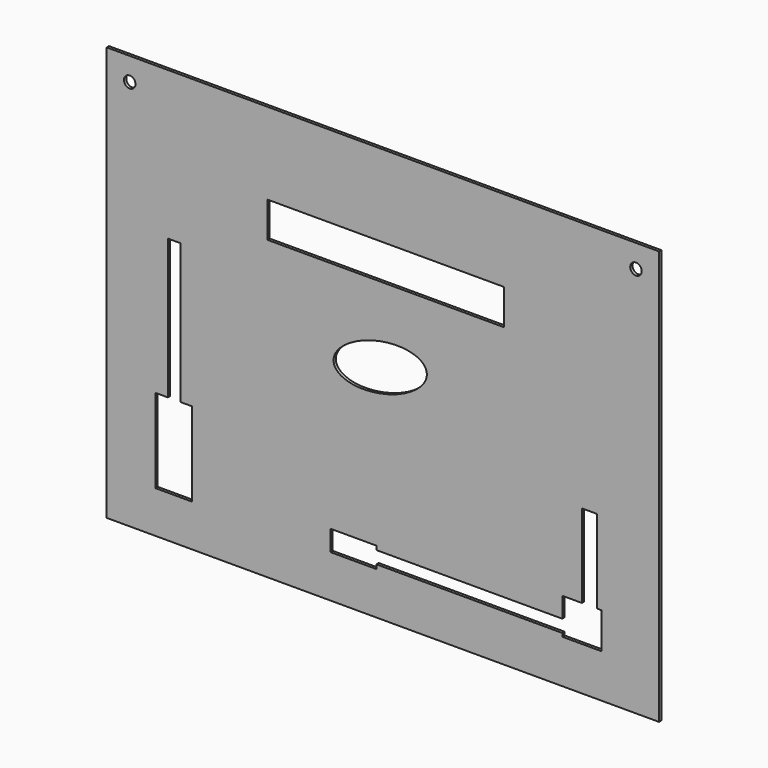
from build123d import *

# Parameters (mm, degrees)
F0_W     = 609.6
F0_H     = 457.2
F0_R     = 6.35
F0_W_2   = 261.167854
F0_H_2   = 39.175182
F1_DEPTH = 3.175


with BuildPart() as f1:
    # F0 (on Front) → F1 (new body)
    with BuildSketch(Plane.XZ):
        with Locations((2.926078, 30.520323)):
            Rectangle(F0_W, F0_H)
        Polygon((-234.366894, -59.028838), (-234.366894, 95.353276), (-220.525727, 95.353276), (-220.525727, -59.028838), (-207.749292, -59.028838), (-207.749292, -151.658103), (-248.208046, -151.658103), (-248.208046, -59.028838), align=None, mode=Mode.SUBTRACT)
        Polygon((-4.236173, -128.238574), (-4.236173, -132.526398), (200.95925, -132.526398), (200.95925, -110.175043), (222.640842, -110.175043), (222.640842, -18.203117), (239.426598, -18.203117), (239.426598, -110.175043), (244.322434, -110.175043), (244.322434, -150.041208), (200.95925, -150.041208), (200.95925, -146.367162), (-4.236173, -146.367162), (-4.236173, -151.014999), (-55.13164, -151.014999), (-55.13164, -128.238574), align=None, mode=Mode.SUBTRACT)
        with BuildLine():
            add(Edge.make_bspline(
                [(-51.138811, 33.683006), (-40.763055, -8.035491), (30.757283, 31.901763), (102.277622, 71.839016), (20.381528, 73.620259), (-61.514566, 75.401502), (-51.138811, 33.683006)],
                knots=[0, 0, 0, 2.094395, 2.094395, 4.18879, 4.18879, 6.283185, 6.283185, 6.283185], degree=2, weights=[1, 0.5, 1, 0.5, 1, 0.5, 1]))
        make_face(mode=Mode.SUBTRACT)
        with Locations((-276.473922, 233.720323)):
            Circle(F0_R, mode=Mode.SUBTRACT)
        with Locations((6.09912, 149.388954)):
            Rectangle(F0_W_2, F0_H_2, mode=Mode.SUBTRACT)
        with Locations((282.326078, 233.720323)):
            Circle(F0_R, mode=Mode.SUBTRACT)
    extrude(amount=F1_DEPTH)


solid = f1.part
